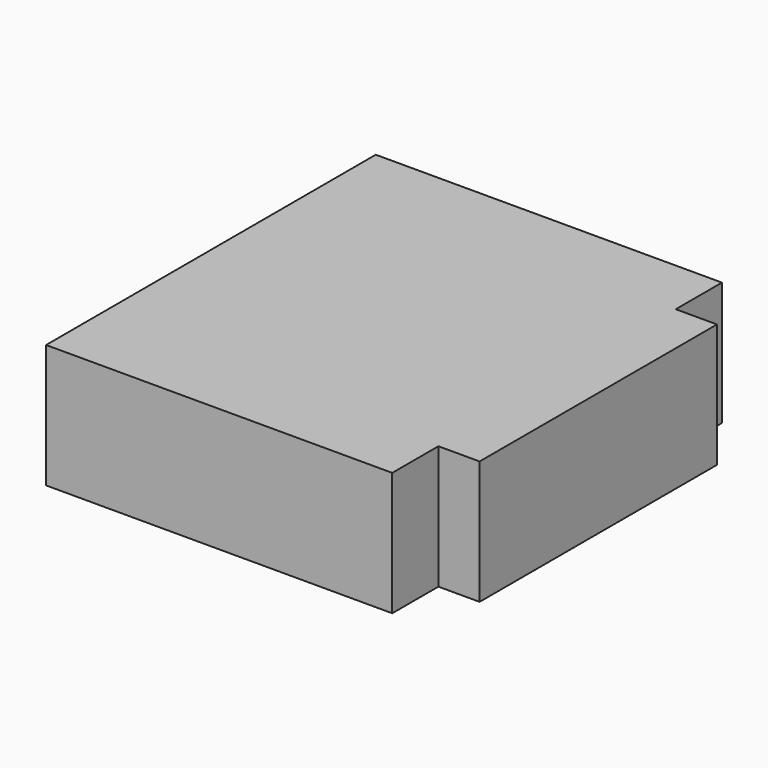
from build123d import *

# Parameters (mm, degrees)
BOX007_W     = 42
BOX007_H     = 50
BOX007_DEPTH = 15
BOX008_W     = 5
BOX008_H     = 36
BOX008_DEPTH = 15


with BuildPart() as cube006:
    # Box007 → Box007 (new body)
    with BuildSketch(Plane.XY):
        with Locations((21, 25)):
            Rectangle(BOX007_W, BOX007_H)
    extrude(amount=BOX007_DEPTH)


with BuildPart() as usb_fusion:
    # Box008 → Box008 (new body)
    with BuildSketch(Plane(origin=(42, 7, 0), x_dir=(1, 0, 0), z_dir=(0, 0, 1))):
        with Locations((2.5, 18)):
            Rectangle(BOX008_W, BOX008_H)
    extrude(amount=BOX008_DEPTH)

    # Fusion001: union Cube006
    add(cube006.part)


solid = usb_fusion.part
